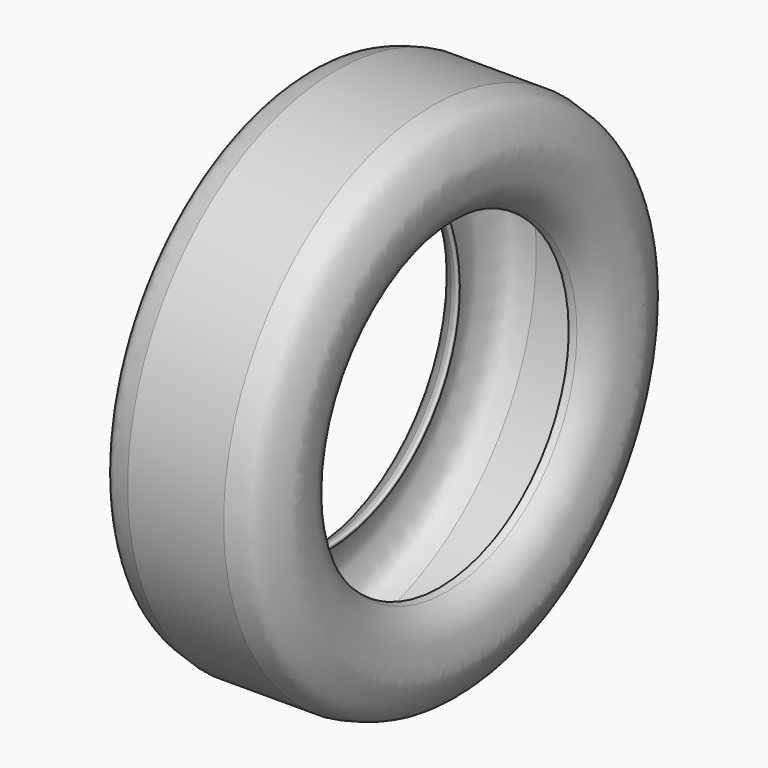
from build123d import *


with BuildPart() as f1:
    # F0 (on Front) → F1 (revolve)
    with BuildSketch(Plane.XZ):
        with BuildLine():
            add(Edge.make_bspline(
                [(56.6458255053, 117.5), (62.7171272649, 116.5664827373), (73.8311255873, 114.8576055142), (85.2432993489, 108.6060869136), (92.1748838376, 90.8395071551), (96.6775416805, 73.0108596041), (93.3848388851, 57.6709572407), (91.1603534237, 40.5707121309), (86.0973938118, 31.5949696788), (77.7241755203, 23.6394321706), (64.8440093318, 17.9433264081), (64.9174665786, 10.1408411785), (70.6964441381, 12.580263439), (74.0922592328, 14.0137050555)],
                knots=[0, 0, 0, 0, 0.1057079458, 0.1935067599, 0.3019914797, 0.4104762332, 0.5110751366, 0.6151970084, 0.6948654854, 0.7816794816, 0.8749223043, 0.9265024439, 1, 1, 1, 1], degree=3))
            add(Edge.make_bspline(
                [(74.0922592328, 14.0137050555), (77.460857379, 15.8831982669), (85.1861810436, 20.1705722785), (98.1224992698, 37.1168542101), (100.7803224981, 60.881569733), (104.9974342753, 80.898405937), (89.7499416824, 116.8042871993), (78.9999632091, 124.444184055), (64.7568817465, 127.6655294416), (56.6458255053, 129.5)],
                knots=[0, 0, 0, 0, 0.1099041468, 0.2520470146, 0.4032876545, 0.5482639847, 0.7382391755, 0.8509341693, 1, 1, 1, 1], degree=3))
            Line((56.6458255053, 129.5), (0, 129.5))
            Line((0, 129.5), (-56.6458255053, 129.5))
            add(Edge.make_bspline(
                [(-74.0922592328, 14.0137050555), (-77.460857379, 15.8831982669), (-85.1861810436, 20.1705722785), (-98.1224992698, 37.1168542101), (-100.7803224981, 60.881569733), (-104.9974342753, 80.898405937), (-89.7499416824, 116.8042871993), (-78.9999632091, 124.444184055), (-64.7568817465, 127.6655294416), (-56.6458255053, 129.5)],
                knots=[0, 0, 0, 0, 0.1099041468, 0.2520470146, 0.4032876545, 0.5482639847, 0.7382391755, 0.8509341693, 1, 1, 1, 1], degree=3))
            add(Edge.make_bspline(
                [(-56.6458255053, 117.5), (-62.7171272649, 116.5664827373), (-73.8311255873, 114.8576055142), (-85.2432993489, 108.6060869136), (-92.1748838376, 90.8395071551), (-96.6775416805, 73.0108596041), (-93.3848388851, 57.6709572407), (-91.1603534237, 40.5707121309), (-86.0973938118, 31.5949696788), (-77.7241755203, 23.6394321706), (-64.8440093318, 17.9433264081), (-64.9174665786, 10.1408411785), (-70.6964441381, 12.580263439), (-74.0922592328, 14.0137050555)],
                knots=[0, 0, 0, 0, 0.1057079458, 0.1935067599, 0.3019914797, 0.4104762332, 0.5110751366, 0.6151970084, 0.6948654854, 0.7816794816, 0.8749223043, 0.9265024439, 1, 1, 1, 1], degree=3))
            Line((-56.6458255053, 117.5), (0, 117.5))
            Line((0, 117.5), (56.6458255053, 117.5))
        make_face()
    revolve(axis=Axis((-59.1031610966, 0, -177.8), (-1, 0, 0)))


solid = f1.part
